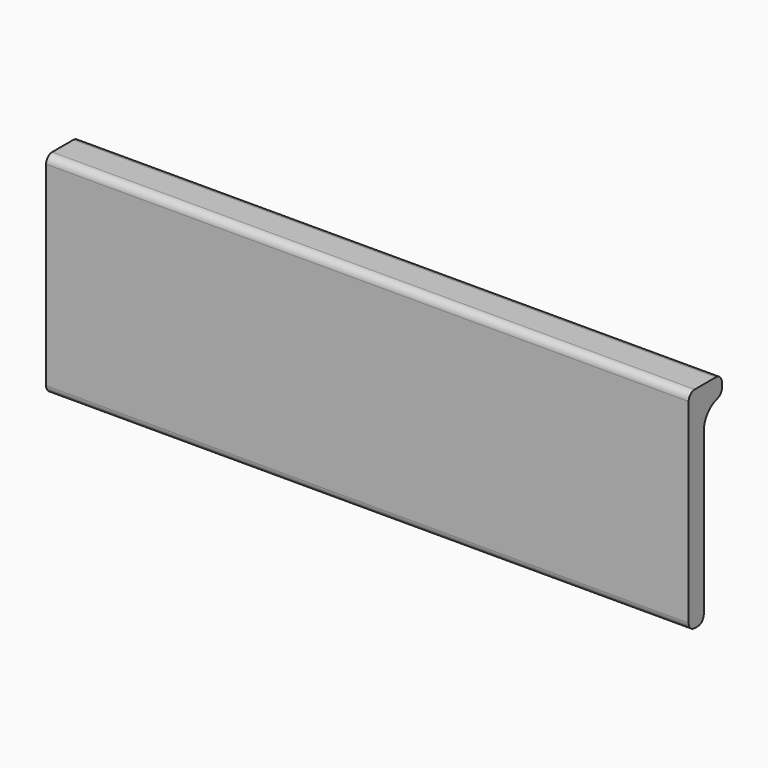
from build123d import *

# Parameters (mm, degrees)
F1_DEPTH = 107.95


with BuildPart() as f1:
    # F0 (on Right) → F1 (new body)
    with BuildSketch(Plane.YZ):
        with BuildLine():
            Line((0, 28.956), (0, 1.27))
            ThreePointArc((0, 1.27), (0.371974, 0.371974), (1.27, 0))
            Line((1.27, 0), (1.905, 0))
            ThreePointArc((1.905, 0), (2.803026, 0.371974), (3.175, 1.27))
            Line((3.175, 1.27), (3.175, 28.321))
            ThreePointArc((3.175, 28.321), (3.972931, 30.654139), (6.0325, 32.010017))
            ThreePointArc((6.0325, 32.010017), (6.719023, 32.461976), (6.985, 33.239689))
            Line((6.985, 33.239689), (6.985, 34.036))
            ThreePointArc((6.985, 34.036), (6.613026, 34.934026), (5.715, 35.306))
            Line((5.715, 35.306), (1.27, 35.306))
            ThreePointArc((1.27, 35.306), (0.371974, 34.934026), (0, 34.036))
            Line((0, 34.036), (0, 28.956))
        make_face()
    extrude(amount=F1_DEPTH)


solid = f1.part
